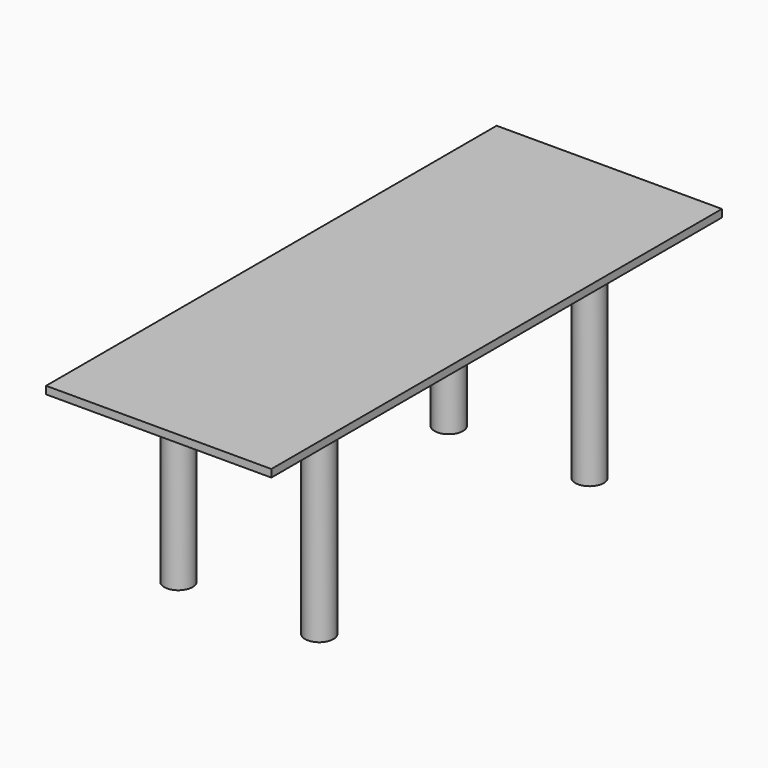
from build123d import *

# Parameters (mm, degrees)
F0_W     = 800
F0_H     = 27
F1_DEPTH = 2000
F2_R     = 50.336574
F3_DEPTH = 700


with BuildPart() as f1:
    # F0 (on Front) → F1 (new body)
    with BuildSketch(Plane.XZ):
        with Locations((0, 713.5)):
            Rectangle(F0_W, F0_H)
    extrude(amount=F1_DEPTH)

    # F2 (on face) → F3 (join)
    with BuildSketch(Plane(origin=(0, 0, 700), x_dir=(1, 0, 0), z_dir=(0, 0, -1))):
        with Locations((-250, 400)):
            Circle(F2_R)
        with Locations((-250, 1600)):
            Circle(F2_R)
        with Locations((250, 1600)):
            Circle(F2_R)
        with Locations((250, 400)):
            Circle(F2_R)
    extrude(amount=F3_DEPTH)


solid = f1.part
